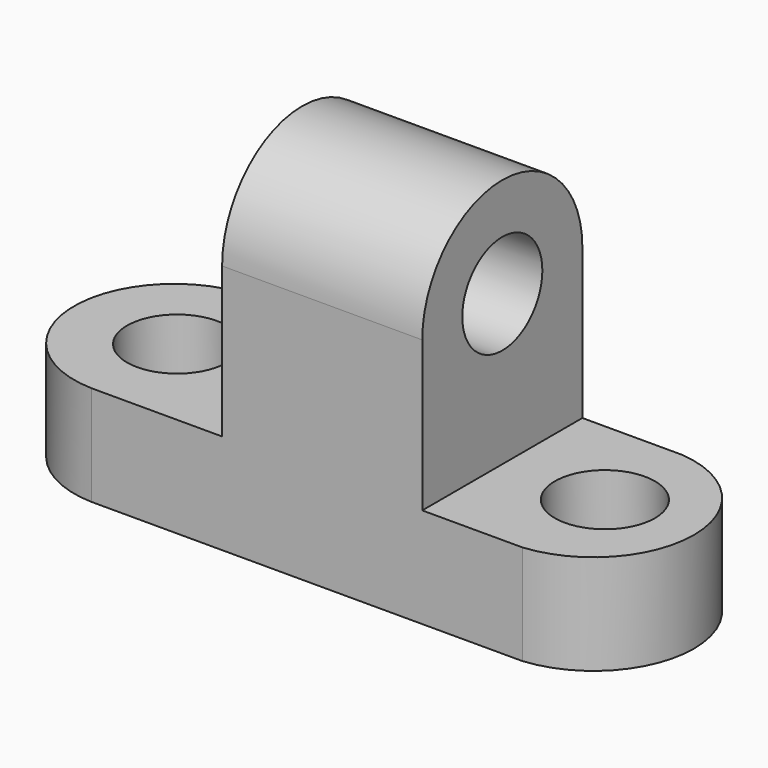
from build123d import *

# Parameters (mm, degrees)
F0_W     = 88.9
F0_H     = 63.5
F1_DEPTH = 25.4
F2_W     = 31.75
F2_H     = 50.8
F3_DEPTH = 25.4
F4_R     = 6.35
F5_DEPTH = 25.4
F6_R     = 6.35
F7_DEPTH = 25.4
F8_R     = 6.35
F9_DEPTH = 25.4


with BuildPart() as f1:
    # F0 (on Front) → F1 (new body)
    with BuildSketch(Plane.XZ):
        with Locations((1.6738499718, 31.75)):
            Rectangle(F0_W, F0_H)
    extrude(amount=F1_DEPTH)

    # F2 (on face) → F3 (cut)
    with BuildSketch(Plane.XZ.offset(25.4)):
        with Locations((-26.9011500282, 38.1)):
            Rectangle(F2_W, F2_H)
        with Locations((30.2488499718, 38.1)):
            Rectangle(F2_W, F2_H)
    extrude(amount=-F3_DEPTH, mode=Mode.SUBTRACT)

    # F4 (on face) → F5 (cut)
    with BuildSketch(Plane.YZ.offset(14.3738499718)):
        with BuildLine():
            ThreePointArc((-25.4, 31.75), (-12.7, 44.45), (0, 31.75))
            Line((0, 31.75), (0, 63.5))
            Line((0, 63.5), (-25.4, 63.5))
            Line((-25.4, 63.5), (-25.4, 31.75))
        make_face()
        with Locations((-12.7, 31.75)):
            Circle(F4_R)
    extrude(amount=-F5_DEPTH, mode=Mode.SUBTRACT)

    # F6 (on face) → F7 (cut)
    with BuildSketch(Plane.XY.offset(12.7)):
        with Locations((27.0673923413, -12.2950529623)):
            Circle(F6_R)
        with BuildLine():
            ThreePointArc((27.0673923413, 0), (38.6908388043, -12.7), (27.0673923413, -25.4))
            Line((27.0673923413, -25.4), (46.1238499718, -25.4))
            Line((46.1238499718, -25.4), (46.1238499718, 0))
            Line((46.1238499718, 0), (27.0673923413, 0))
        make_face()
    extrude(amount=-F7_DEPTH, mode=Mode.SUBTRACT)

    # F8 (on face) → F9 (cut)
    with BuildSketch(Plane.XY.offset(12.7)):
        with Locations((-26.9011500282, -12.7)):
            Circle(F8_R)
        with BuildLine():
            ThreePointArc((-27.6049521663, -25.4), (-39.9579255304, -12.7), (-27.6049521663, 0))
            Line((-27.6049521663, 0), (-42.7761500282, 0))
            Line((-42.7761500282, 0), (-42.7761500282, -25.4))
            Line((-42.7761500282, -25.4), (-27.6049521663, -25.4))
        make_face()
    extrude(amount=-F9_DEPTH, mode=Mode.SUBTRACT)


solid = f1.part
